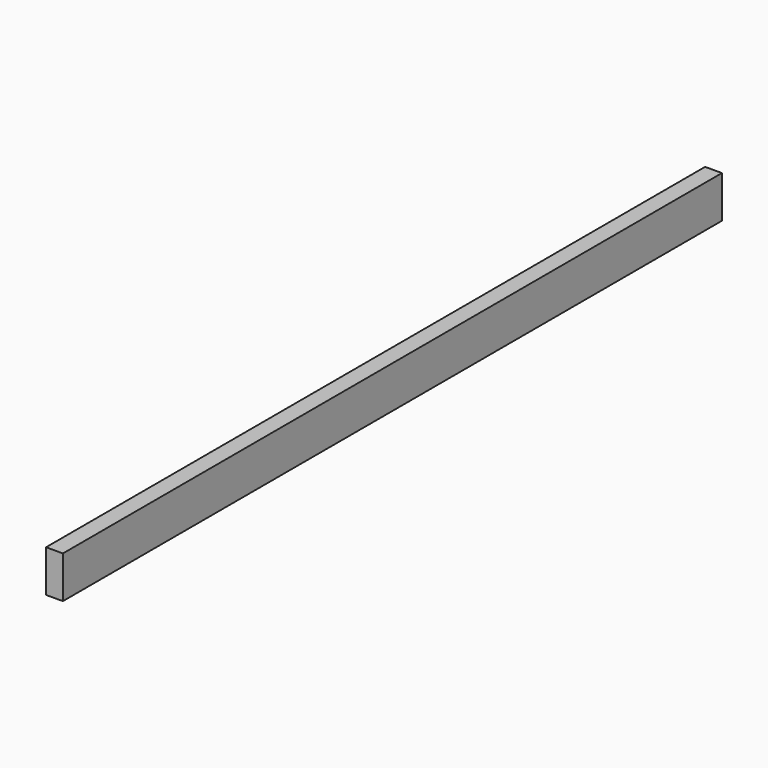
from build123d import *

# Parameters (mm, degrees)
F0_W     = 20
F0_H     = 50
F1_DEPTH = 980
F2_W     = 50
F2_H     = 20
F3_DEPTH = 15


with BuildPart() as f1:
    # F0 (on Front) → F1 (new body)
    with BuildSketch(Plane.XZ):
        Rectangle(F0_W, F0_H)
    extrude(amount=-F1_DEPTH)

    # F2 (on face) → F3 (cut)
    with BuildSketch(Plane(origin=(-10, 0, 0), x_dir=(0, -1, 0), z_dir=(-1, 0, 0))):
        with Locations((-765, 0)):
            Rectangle(F2_W, F2_H)
        with Locations((-215, 0)):
            Rectangle(F2_W, F2_H)
    extrude(amount=-F3_DEPTH, mode=Mode.SUBTRACT)


solid = f1.part
